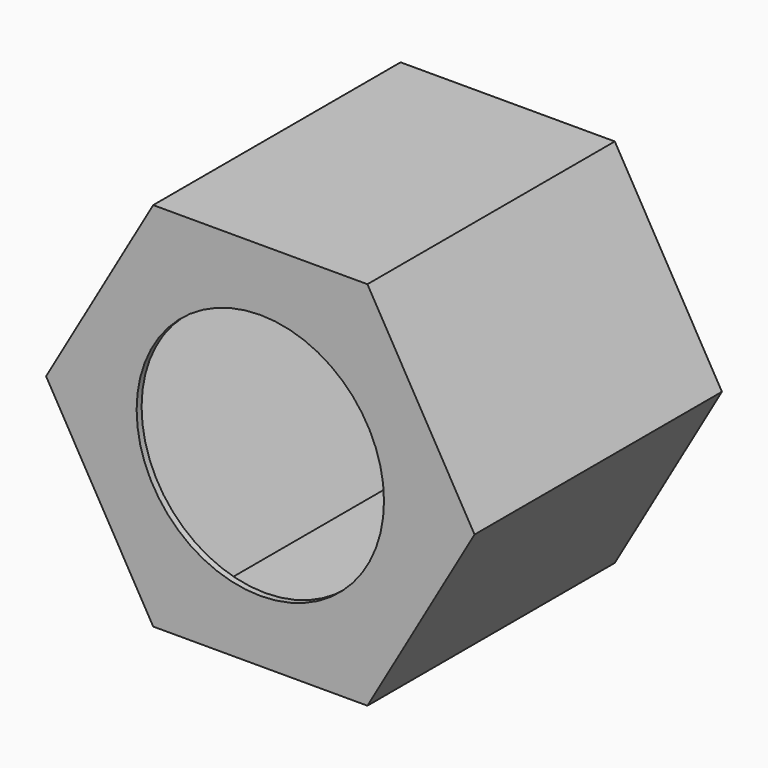
from build123d import *

# Parameters (mm, degrees)
F1_DEPTH = 100
F2_T     = -2
F3_R     = 40
F4_DEPTH = 2
F5_R     = 4
F6_DEPTH = 2
F5_R_2   = 5
F7_DEPTH = 10
F8_SIZE2 = 3
F8_SIZE  = 0.6


with BuildPart() as f1:
    # F0 (on Front) → F1 (new body)
    with BuildSketch(Plane.XZ):
        Polygon((34.6410161514, -60), (69.2820323028, 0), (34.6410161514, 60), (-34.6410161514, 60), (-69.2820323028, 0), (-34.6410161514, -60), align=None)
    extrude(amount=F1_DEPTH)

    # F2
    f2_openings = [f1.faces().sort_by_distance(p)[0] for p in [
        (0, -100, 0),
    ]]
    offset(amount=F2_T, openings=f2_openings)

    # F3 (on face) → F4 (join)
    with BuildSketch(Plane.XZ.offset(100)):
        Polygon((-33.486315613, -58), (33.486315613, -58), (66.972631226, 0), (33.486315613, 58), (-33.486315613, 58), (-66.972631226, 0), align=None)
        Circle(F3_R, mode=Mode.SUBTRACT)
    extrude(amount=-F4_DEPTH)

    # F5 (on face) → F6 (cut, through all)
    with BuildSketch(Plane(origin=(0, 0, -60), x_dir=(1, 0, 0), z_dir=(0, 0, -1))):
        with Locations((0, 8.7902189698)):
            Circle(F5_R)
    extrude(amount=-F6_DEPTH, mode=Mode.SUBTRACT)

    # F5 (on face) → F7 (join)
    with BuildSketch(Plane(origin=(0, 0, -60), x_dir=(1, 0, 0), z_dir=(0, 0, -1))):
        with Locations((0, 8.7902189698)):
            Circle(F5_R_2)
        with Locations((0, 8.7902189698)):
            Circle(F5_R, mode=Mode.SUBTRACT)
    extrude(amount=F7_DEPTH)

    # F8
    f8_edges = [f1.edges().sort_by_distance(p)[0] for p in [
        (-5, -8.790219, -70),
    ]]
    f8_side = f1.faces().sort_by_distance((-4.858579, -8.790219, -70))[0]
    chamfer(f8_edges, length=F8_SIZE, length2=F8_SIZE2, reference=f8_side)


solid = f1.part
